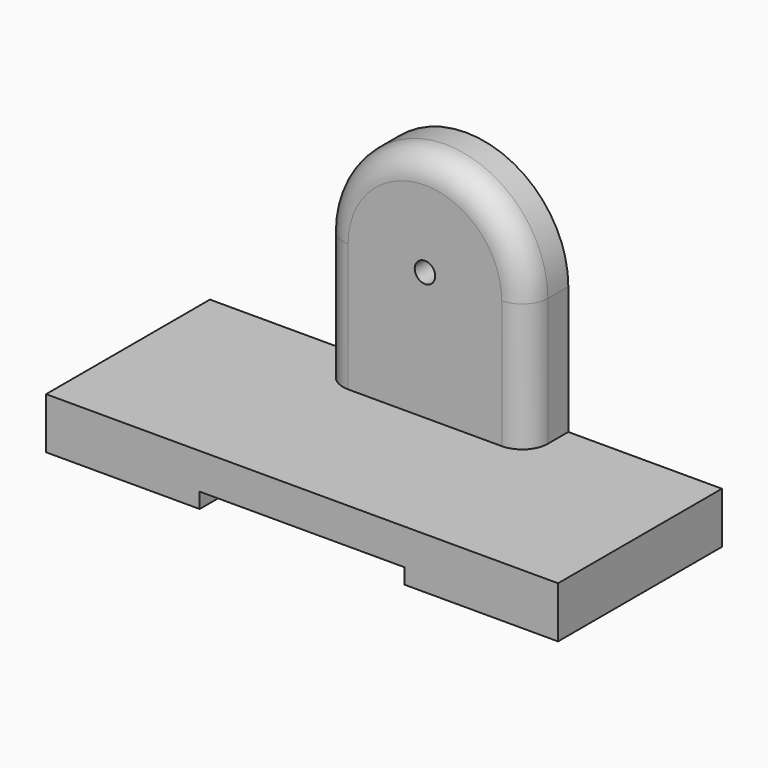
from build123d import *

# Parameters (mm, degrees)
F0_W     = 100
F0_H     = 40
F1_DEPTH = 10
F3_DEPTH = 10
F4_R     = 2
F5_DEPTH = 25
F6_R     = 4.5
F7_DEPTH = 5.7
F8_W     = 40
F8_H     = 3
F9_DEPTH = 40.001
F10_R    = 5


with BuildPart() as f1:
    # F0 (on Top) → F1 (new body)
    with BuildSketch(Plane.XY):
        with Locations((-50, 20)):
            Rectangle(F0_W, F0_H)
    extrude(amount=F1_DEPTH)

    # F2 (on face) → F3 (join)
    with BuildSketch(Plane(origin=(0, 40, 0), x_dir=(-1, 0, 0), z_dir=(0, 1, 0))):
        with BuildLine():
            Line((30, 35), (30, 0))
            Line((30, 0), (70, 0))
            Line((70, 0), (70, 35))
            ThreePointArc((70, 35), (50, 55), (30, 35))
        make_face()
    extrude(amount=-F3_DEPTH)

    # F4 (on face) → F5 (cut)
    with BuildSketch(Plane(origin=(0, 40, 0), x_dir=(-1, 0, 0), z_dir=(0, 1, 0))):
        with Locations((50, 35)):
            Circle(F4_R)
    extrude(amount=-F5_DEPTH, mode=Mode.SUBTRACT)

    # F6 (on face) → F7 (cut)
    with BuildSketch(Plane(origin=(0, 40, 0), x_dir=(-1, 0, 0), z_dir=(0, 1, 0))):
        with Locations((50, 35)):
            Circle(F6_R)
    extrude(amount=-F7_DEPTH, mode=Mode.SUBTRACT)

    # F8 (on face) → F9 (cut, through all)
    with BuildSketch(Plane(origin=(0, 40, 0), x_dir=(-1, 0, 0), z_dir=(0, 1, 0))):
        with Locations((50, 1.5)):
            Rectangle(F8_W, F8_H)
    extrude(amount=-F9_DEPTH, mode=Mode.SUBTRACT)

    # F10
    f10_edges = [f1.edges().sort_by_distance(p)[0] for p in [
        (-70, 30, 22.5),
        (-30, 30, 22.5),
    ]]
    fillet(f10_edges, radius=F10_R)


solid = f1.part
